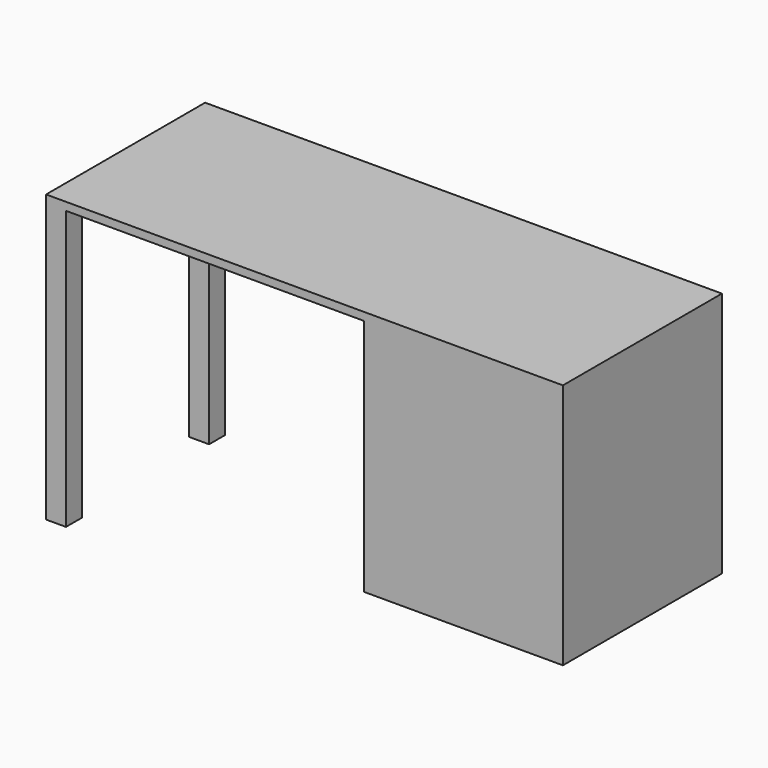
from build123d import *

# Parameters (mm, degrees)
F0_W     = 130
F0_H     = 50
F1_DEPTH = 2
F2_W     = 50
F2_H     = 50
F3_DEPTH = 60
F4_W     = 5
F4_H     = 5
F5_DEPTH = 70


with BuildPart() as f1:
    # F0 (on Top) → F1 (new body)
    with BuildSketch(Plane.XY):
        Rectangle(F0_W, F0_H)
    extrude(amount=F1_DEPTH)

    # F2 (on face) → F3 (join)
    with BuildSketch(Plane(origin=(0, 0, 0), x_dir=(1, 0, 0), z_dir=(0, 0, -1))):
        with Locations((40, 0)):
            Rectangle(F2_W, F2_H)
    extrude(amount=F3_DEPTH)

    # F4 (on face) → F5 (join)
    with BuildSketch(Plane(origin=(0, 0, 0), x_dir=(1, 0, 0), z_dir=(0, 0, -1))):
        with Locations((-62.5, 22.5)):
            Rectangle(F4_W, F4_H)
        with Locations((-62.5, -22.5)):
            Rectangle(F4_W, F4_H)
    extrude(amount=F5_DEPTH)


solid = f1.part
